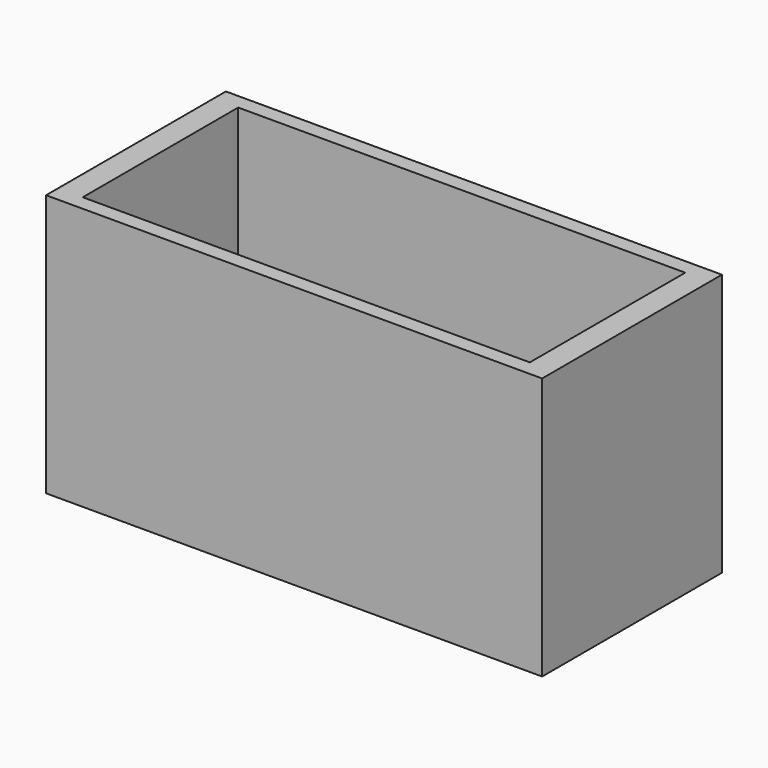
from build123d import *

# Parameters (mm, degrees)
F0_W     = 216.339796
F0_H     = 94.022334
F3_DEPTH = 25.4
F1_W     = 231.186748
F1_H     = 102.275074
F1_W_2   = 216.339796
F1_H_2   = 94.022334
F4_DEPTH = 50.8
F2_W     = 240.056262
F2_H     = 108.75938
F2_W_2   = 216.339796
F2_H_2   = 94.022334
F5_DEPTH = 127


with BuildPart() as f3:
    # F0 (on Top) → F3 (new body)
    with BuildSketch(Plane.XY):
        Rectangle(F0_W, F0_H)
    extrude(amount=F3_DEPTH)

    # F1 (on face) → F4 (join)
    with BuildSketch(Plane.XY):
        Rectangle(F1_W, F1_H)
        Rectangle(F1_W_2, F1_H_2, mode=Mode.SUBTRACT)
    extrude(amount=F4_DEPTH)

    # F2 (on face) → F5 (join)
    with BuildSketch(Plane.XY):
        Rectangle(F2_W, F2_H)
        Rectangle(F2_W_2, F2_H_2, mode=Mode.SUBTRACT)
    extrude(amount=F5_DEPTH)


solid = f3.part
